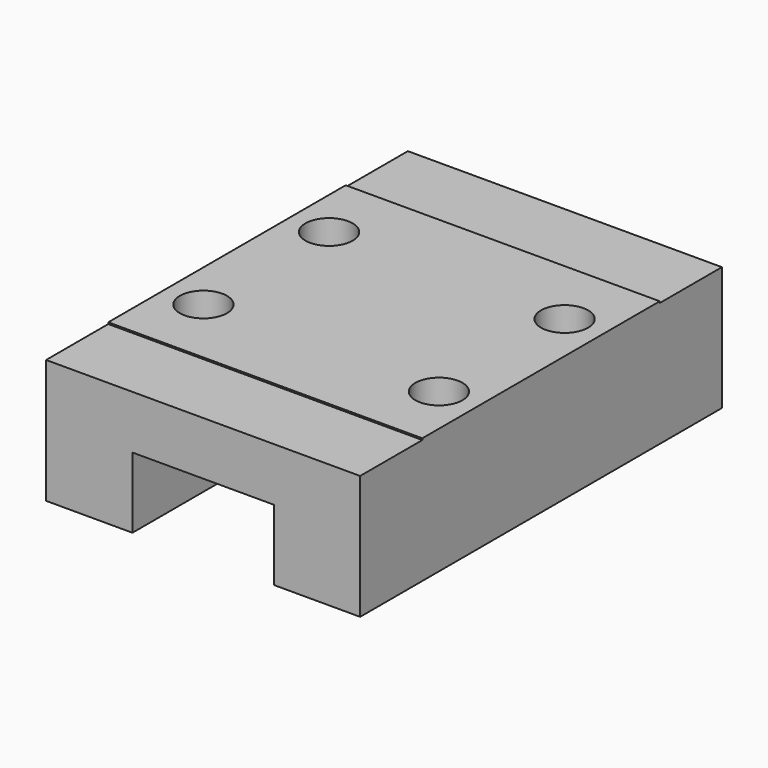
from build123d import *

# Parameters (mm, degrees)
SKETCH022_W     = 20
SKETCH022_H     = 28.8
PAD009_DEPTH    = 8
SKETCH023_W     = 9
SKETCH023_H     = 4.5
POCKET013_DEPTH = 28.8
SKETCH026_R     = 1.5
POCKET014_DEPTH = 4
SKETCH021_W     = 20
SKETCH021_H     = 4.95
POCKET015_DEPTH = 0.1


with BuildPart() as part:
    # Sketch022 → Pad009 (new body)
    with BuildSketch(Plane.XY):
        with Locations((-4.5, 14.4)):
            Rectangle(SKETCH022_W, SKETCH022_H)
    extrude(amount=PAD009_DEPTH)

    # Sketch023 (on Face1 of Pad009) → Pocket013 (cut)
    with BuildSketch(Plane.XZ):
        with Locations((-4.5, 2.25)):
            Rectangle(SKETCH023_W, SKETCH023_H)
    extrude(amount=-POCKET013_DEPTH, mode=Mode.SUBTRACT)

    # Sketch026 (on Face8 of Pocket013) → Pocket014 (cut)
    with BuildSketch(Plane.XY.offset(8)):
        with Locations((-12, 19.4)):
            Circle(SKETCH026_R)
        with Locations((3, 9.4)):
            Circle(SKETCH026_R)
        with Locations((-12, 9.4)):
            Circle(SKETCH026_R)
        with Locations((3, 19.4)):
            Circle(SKETCH026_R)
    extrude(amount=-POCKET014_DEPTH, mode=Mode.SUBTRACT)

    # Sketch021 (on Face8 of Pocket014) → Pocket015 (cut)
    with BuildSketch(Plane.XY.offset(8)):
        with Locations((-4.5, 26.325)):
            Rectangle(SKETCH021_W, SKETCH021_H)
        with Locations((-4.5, 2.475)):
            Rectangle(SKETCH021_W, SKETCH021_H)
    extrude(amount=-POCKET015_DEPTH, mode=Mode.SUBTRACT)


with BuildPart() as part_1:
    # Body008 placement: moved
    add(part.part.moved(Location((0, 100, 2))))


solid = part_1.part
